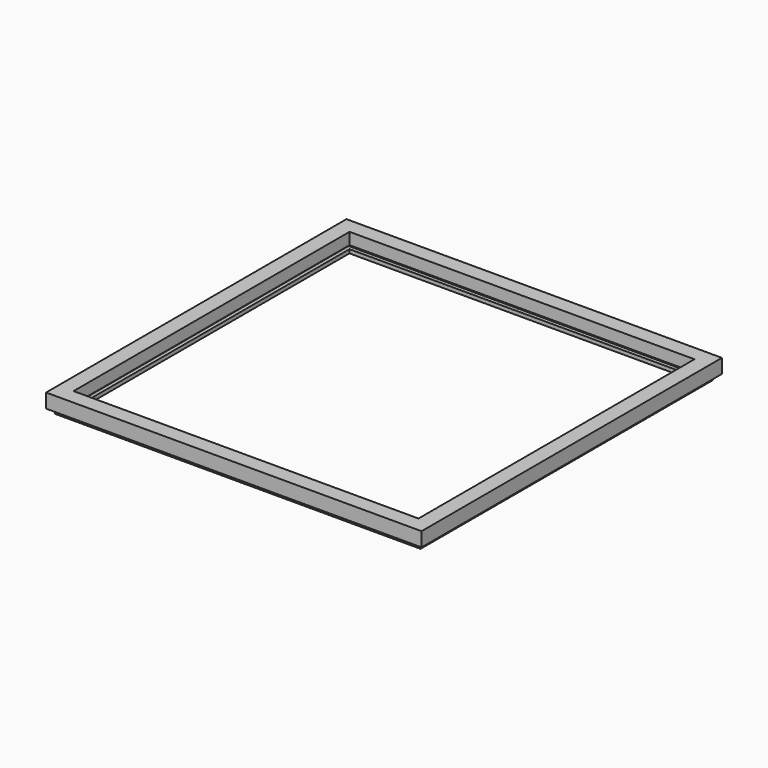
from build123d import *


with BuildPart() as f2:
    # F2: sweep along a path in F0
    with BuildLine(Plane.XY) as f2_path:
        Line((-143.7282372266, -156.79862791), (156.2717627734, -156.79862791))
        Line((156.2717627734, -156.79862791), (156.2717627734, 143.20137209))
        Line((156.2717627734, 143.20137209), (-143.7282372266, 143.20137209))
        Line((-143.7282372266, 143.20137209), (-143.7282372266, -156.79862791))
    # F1 (on Right) → F2 (sweep)
    with BuildSketch(Plane.YZ):
        Polygon((-152.8481326103, -0.3476490092), (-144.8981165886, -0.3476490092), (-144.8981165886, 2.6523509908), (-147.8981165886, 2.6523509908), (-147.8981165886, 5.6523509908), (-144.6481214636, 5.6523509908), (-144.6481214636, 15.0182117835), (-156.8481326103, 15.0182117835), (-156.8481326103, 3.6523509908), (-152.8481326103, 3.6523509908), align=None)
    sweep(path=f2_path.line, transition=Transition.RIGHT)


solid = f2.part
